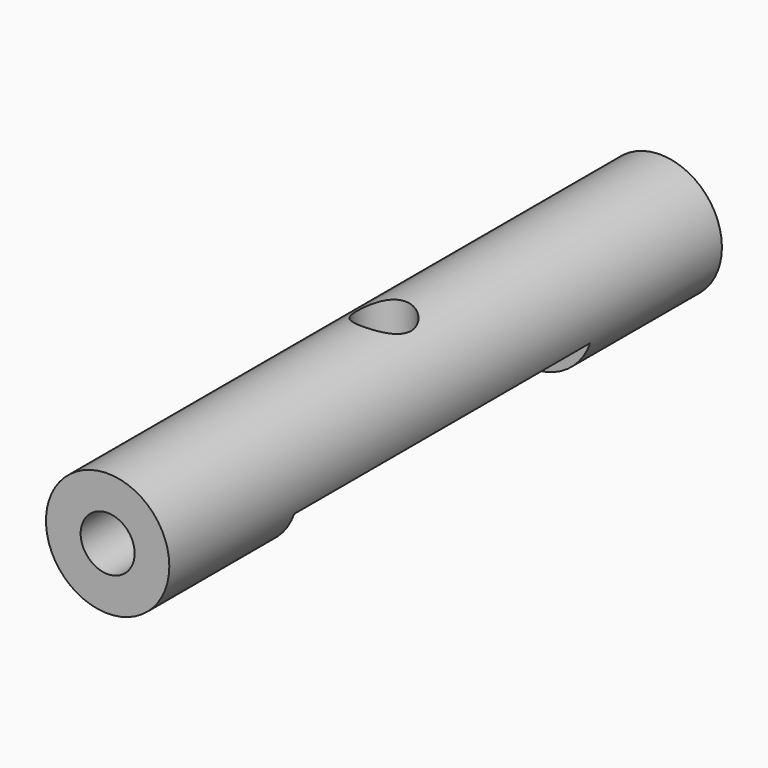
from build123d import *

# Parameters (mm, degrees)
F0_R     = 3.175
F1_DEPTH = 17.78
F2_R     = 1.3890625
F3_DEPTH = 9.525
F4_R     = 1.3890625
F5_DEPTH = 9.525
F6_W     = 19.05
F6_H     = 2.159
F7_DEPTH = 9.525
F8_R     = 1.3890625
F9_DEPTH = 3.175


with BuildPart() as f1:
    # F0 (on Front) → F1 (new body, symmetric)
    with BuildSketch(Plane.XZ):
        Circle(F0_R)
    extrude(amount=F1_DEPTH, both=True)

    # F2 (on face) → F3 (cut)
    with BuildSketch(Plane.XZ.offset(17.78)):
        Circle(F2_R)
    extrude(amount=-F3_DEPTH, mode=Mode.SUBTRACT)

    # F4 (on face) → F5 (cut)
    with BuildSketch(Plane(origin=(0, 17.78, 0), x_dir=(-1, 0, 0), z_dir=(0, 1, 0))):
        Circle(F4_R)
    extrude(amount=-F5_DEPTH, mode=Mode.SUBTRACT)

    # F6 (on Front) → F7 (cut, symmetric)
    with BuildSketch(Plane.XZ):
        with Locations((-0.3555464804, -2.1219391367)):
            Rectangle(F6_W, F6_H)
    extrude(amount=F7_DEPTH, both=True, mode=Mode.SUBTRACT)

    # F8 (on Top) → F9 (cut, symmetric)
    with BuildSketch(Plane.XY):
        Circle(F8_R)
    extrude(amount=F9_DEPTH, both=True, mode=Mode.SUBTRACT)


solid = f1.part
